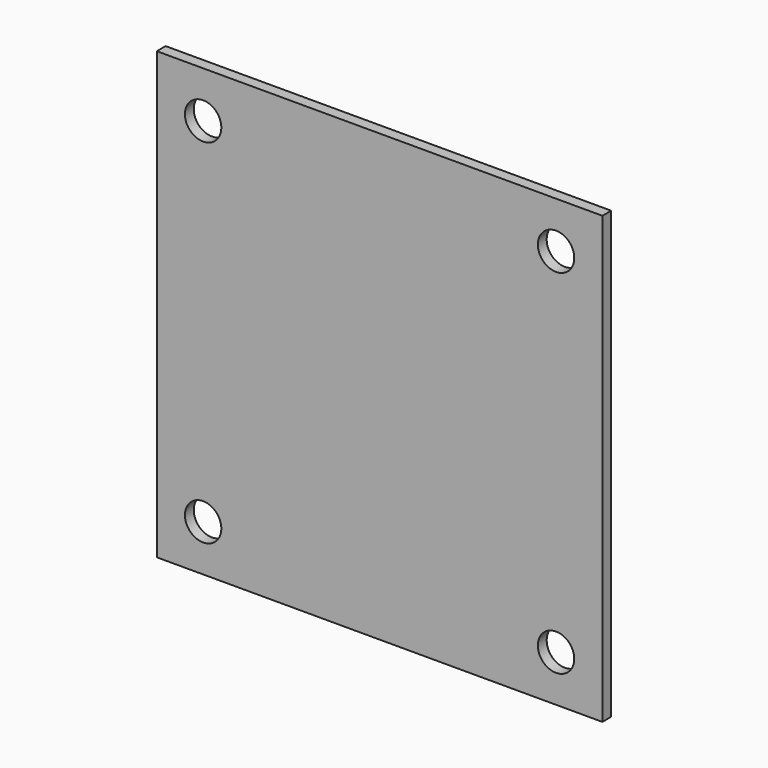
from build123d import *

# Parameters (mm, degrees)
F0_W     = 40.4
F0_H     = 40.4
F1_DEPTH = 1
F3_D     = 3.3


with BuildPart() as f1:
    # F0 (on Front) → F1 (new body)
    with BuildSketch(Plane.XZ):
        with Locations((20.2, 20.2)):
            Rectangle(F0_W, F0_H)
    extrude(amount=F1_DEPTH)

    # F3 (through all)
    with Locations(Plane.XZ.offset(1)):
        with Locations((4.2, 36.2), (36.2, 36.2), (36.2, 4.2), (4.2, 4.2)):
            Hole(F3_D / 2)


solid = f1.part
